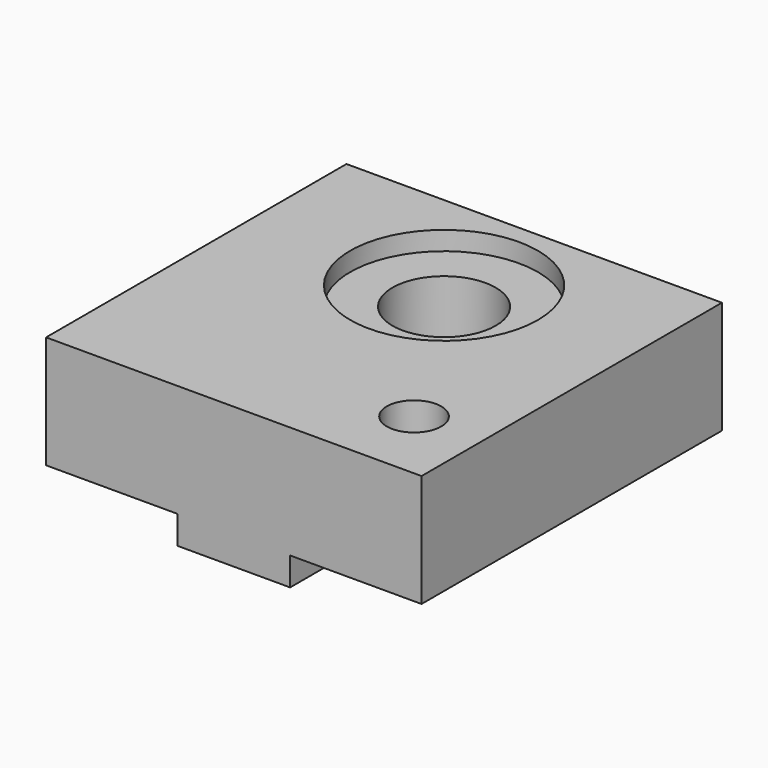
from build123d import *

# Parameters (mm, degrees)
F0_R     = 1.45
F0_R_2   = 5
F0_W     = 6
F0_H     = 8
F1_DEPTH = 6
F2_DEPTH = 1.5
F0_R_3   = 2.75
F3_DEPTH = 5


with BuildPart() as f1:
    # F0 (on Top) → F1 (new body)
    with BuildSketch(Plane.XY):
        Polygon((3, -10), (10, -10), (10, 10), (-10, 10), (-10, -10), (-3, -10), (-3, -2), (3, -2), align=None)
        with Locations((6.4, -6)):
            Circle(F0_R, mode=Mode.SUBTRACT)
        with Locations((0, 4)):
            Circle(F0_R_2, mode=Mode.SUBTRACT)
        with Locations((0, -6)):
            Rectangle(F0_W, F0_H)
    extrude(amount=F1_DEPTH)

    # F0 (on Top) → F2 (join)
    with BuildSketch(Plane.XY):
        with Locations((0, -6)):
            Rectangle(F0_W, F0_H)
    extrude(amount=-F2_DEPTH)

    # F0 (on Top) → F3 (join)
    with BuildSketch(Plane.XY):
        with Locations((0, 4)):
            Circle(F0_R_2)
        with Locations((0, 4)):
            Circle(F0_R_3, mode=Mode.SUBTRACT)
    extrude(amount=F3_DEPTH)


solid = f1.part
